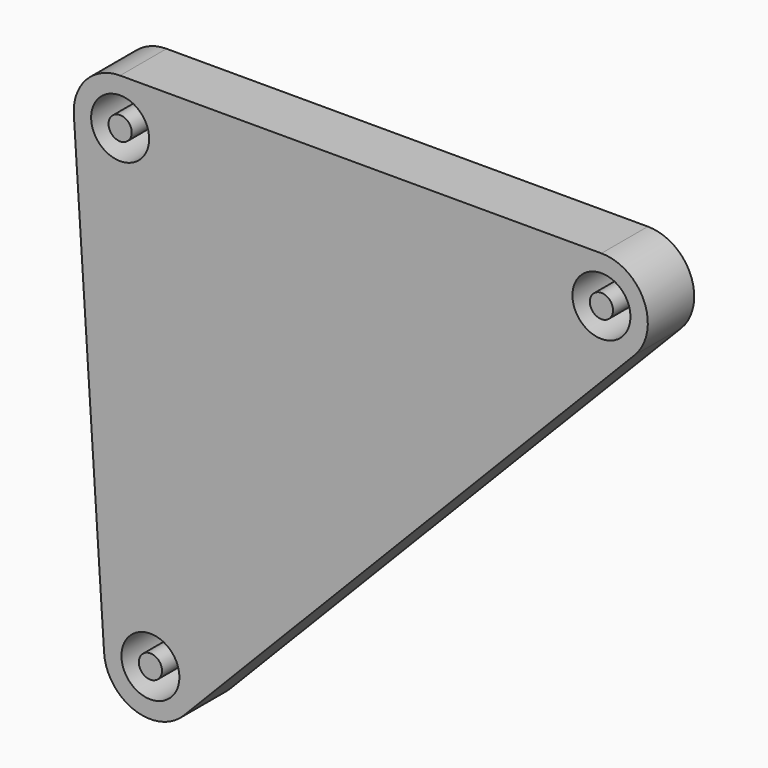
from build123d import *

# Parameters (mm, degrees)
F0_R     = 2.5
F0_R_2   = 1
F1_DEPTH = 5


with BuildPart() as f1:
    # F0 (on Front) → F1 (new body)
    with BuildSketch(Plane.XZ):
        with BuildLine():
            Line((25.79, 6.74), (-15.71, 6.74))
            ThreePointArc((-15.71, 6.74), (-18.629035, 5.474819), (-19.701516, 2.479619))
            Line((-19.701516, 2.479619), (-17.091516, -37.530381))
            ThreePointArc((-17.091516, -37.530381), (-14.482975, -41.023316), (-10.231712, -40.057996))
            Line((-10.231712, -40.057996), (28.658288, -0.047996))
            ThreePointArc((28.658288, -0.047996), (29.474561, 4.296922), (25.79, 6.74))
        make_face()
        with Locations((-13.1, -37.27)):
            Circle(F0_R, mode=Mode.SUBTRACT)
        with Locations((-15.71, 2.74)):
            Circle(F0_R, mode=Mode.SUBTRACT)
        with Locations((25.79, 2.74)):
            Circle(F0_R, mode=Mode.SUBTRACT)
        with Locations((-15.71, 2.74)):
            Circle(F0_R_2)
        with Locations((25.79, 2.74)):
            Circle(F0_R_2)
        with Locations((-13.1, -37.27)):
            Circle(F0_R_2)
    extrude(amount=F1_DEPTH)


solid = f1.part
